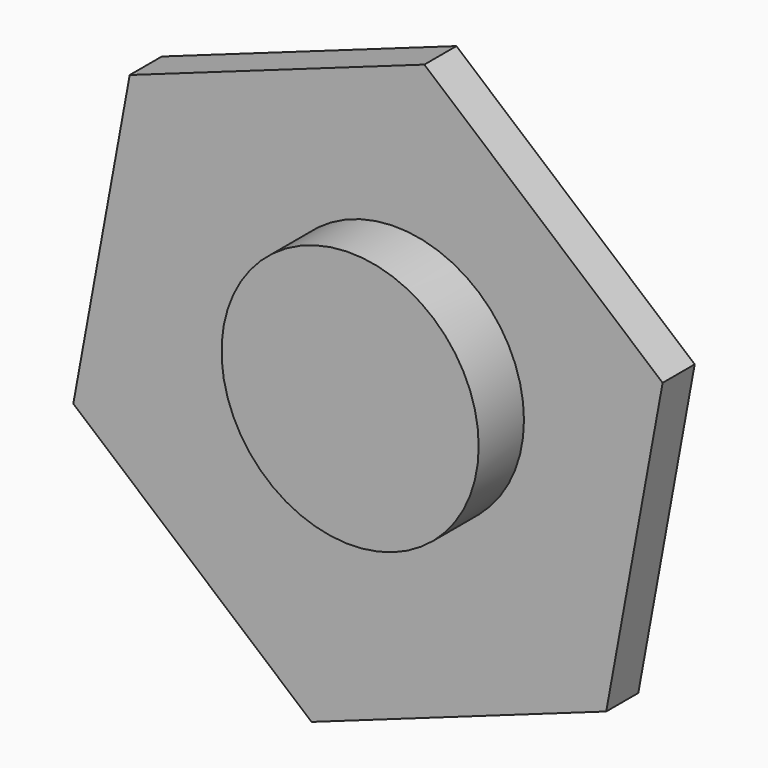
from build123d import *

# Parameters (mm, degrees)
F1_DEPTH = 4.318
F2_R     = 13.8522977146
F3_DEPTH = 6.096


with BuildPart() as f1:
    # F0 (on Front) → F1 (new body)
    with BuildSketch(Plane.XZ):
        with BuildLine():
            Line((6.0770163177, 33.1509892084), (-25.6710906561, 21.8383451146))
            Line((-25.6710906561, 21.8383451146), (-12.8355453281, 10.9191725573))
            ThreePointArc((-12.8355453281, 10.9191725573), (-5.6563220469, 15.8740534869), (3.0385081589, 16.5754946042))
            Line((3.0385081589, 16.5754946042), (6.0770163177, 33.1509892084))
        make_face()
        Polygon((-15.8740534869, -5.6563220469), (-25.6710906561, 21.8383451146), (-31.7481069739, -11.3126440938), align=None)
        with BuildLine():
            Line((31.7481069739, 11.3126440938), (6.0770163177, 33.1509892084))
            Line((6.0770163177, 33.1509892084), (3.0385081589, 16.5754946042))
            ThreePointArc((3.0385081589, 16.5754946042), (10.9191725573, 12.8355453281), (15.8740534869, 5.6563220469))
            Line((15.8740534869, 5.6563220469), (31.7481069739, 11.3126440938))
        make_face()
        with BuildLine():
            Line((25.6710906561, -21.8383451146), (31.7481069739, 11.3126440938))
            Line((31.7481069739, 11.3126440938), (15.8740534869, 5.6563220469))
            ThreePointArc((15.8740534869, 5.6563220469), (16.6054844473, 2.8700939835), (16.8516928884, 0))
            ThreePointArc((16.8516928884, 0), (10.7883165247, -12.9457243818), (-3.0385081589, -16.5754946042))
            Line((-3.0385081589, -16.5754946042), (-6.0770163177, -33.1509892084))
            Line((-6.0770163177, -33.1509892084), (25.6710906561, -21.8383451146))
        make_face()
        with BuildLine():
            Line((-15.8740534869, -5.6563220469), (-31.7481069739, -11.3126440938))
            Line((-31.7481069739, -11.3126440938), (-6.0770163177, -33.1509892084))
            Line((-6.0770163177, -33.1509892084), (-3.0385081589, -16.5754946042))
            ThreePointArc((-3.0385081589, -16.5754946042), (-10.9191725573, -12.8355453281), (-15.8740534869, -5.6563220469))
        make_face()
        with BuildLine():
            ThreePointArc((15.8740534869, 5.6563220469), (10.9191725573, 12.8355453281), (3.0385081589, 16.5754946042))
            Line((3.0385081589, 16.5754946042), (0, 0))
            Line((0, 0), (15.8740534869, 5.6563220469))
        make_face()
        with BuildLine():
            ThreePointArc((3.0385081589, 16.5754946042), (-5.6563220469, 15.8740534869), (-12.8355453281, 10.9191725573))
            Line((-12.8355453281, 10.9191725573), (0, 0))
            Line((0, 0), (3.0385081589, 16.5754946042))
        make_face()
        with BuildLine():
            Line((0, 0), (-12.8355453281, 10.9191725573))
            ThreePointArc((-12.8355453281, 10.9191725573), (-16.5754946042, 3.0385081589), (-15.8740534869, -5.6563220469))
            Line((-15.8740534869, -5.6563220469), (0, 0))
        make_face()
        with BuildLine():
            Line((-12.8355453281, 10.9191725573), (-25.6710906561, 21.8383451146))
            Line((-25.6710906561, 21.8383451146), (-15.8740534869, -5.6563220469))
            ThreePointArc((-15.8740534869, -5.6563220469), (-16.5754946042, 3.0385081589), (-12.8355453281, 10.9191725573))
        make_face()
        with BuildLine():
            Line((0, 0), (-15.8740534869, -5.6563220469))
            ThreePointArc((-15.8740534869, -5.6563220469), (-10.9191725573, -12.8355453281), (-3.0385081589, -16.5754946042))
            Line((-3.0385081589, -16.5754946042), (0, 0))
        make_face()
        with BuildLine():
            Line((15.8740534869, 5.6563220469), (0, 0))
            Line((0, 0), (-3.0385081589, -16.5754946042))
            ThreePointArc((-3.0385081589, -16.5754946042), (10.7883165247, -12.9457243818), (16.8516928884, 0))
            ThreePointArc((16.8516928884, 0), (16.6054844473, 2.8700939835), (15.8740534869, 5.6563220469))
        make_face()
    extrude(amount=F1_DEPTH)

    # F2 (on face) → F3 (join)
    with BuildSketch(Plane.XZ.offset(4.318)):
        with Locations((2.9549675528, 2.9199353885)):
            Circle(F2_R)
    extrude(amount=F3_DEPTH)


solid = f1.part
